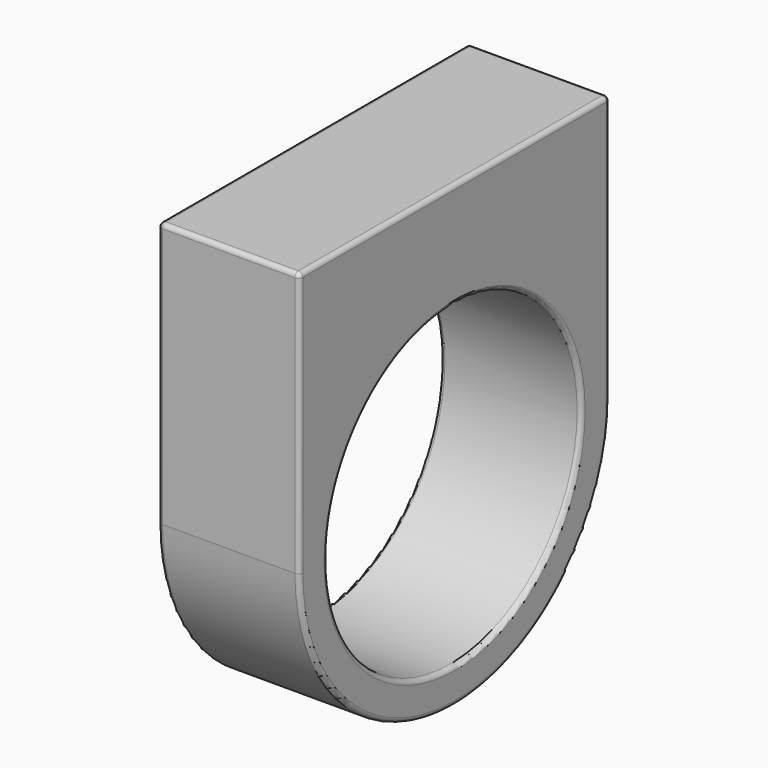
from build123d import *

# Parameters (mm, degrees)
F0_R     = 9
F1_DEPTH = 8
F2_R     = 0.25


with BuildPart() as f1:
    # F0 (on Right) → F1 (new body)
    with BuildSketch(Plane.YZ):
        with BuildLine():
            Line((-11, 15), (-11, 0))
            ThreePointArc((-11, 0), (0, -11), (11, 0))
            Line((11, 0), (11, 15))
            Line((11, 15), (-11, 15))
        make_face()
        Circle(F0_R, mode=Mode.SUBTRACT)
    extrude(amount=F1_DEPTH)

    # F2
    f2_edges = [f1.edges().sort_by_distance(p)[0] for p in [
        (4, -11, 15),
        (4, -11, 0),
        (0, -11, 7.5),
        (8, -11, 7.5),
        (4, 11, 15),
        (0, 0, 15),
        (8, 0, 15),
        (4, 11, 0),
        (0, 0, -11),
        (8, 0, -11),
        (4, 9, 0),
        (0, -9, 0),
        (8, -9, 0),
        (0, 11, 7.5),
        (8, 11, 7.5),
    ]]
    fillet(f2_edges, radius=F2_R)


solid = f1.part
